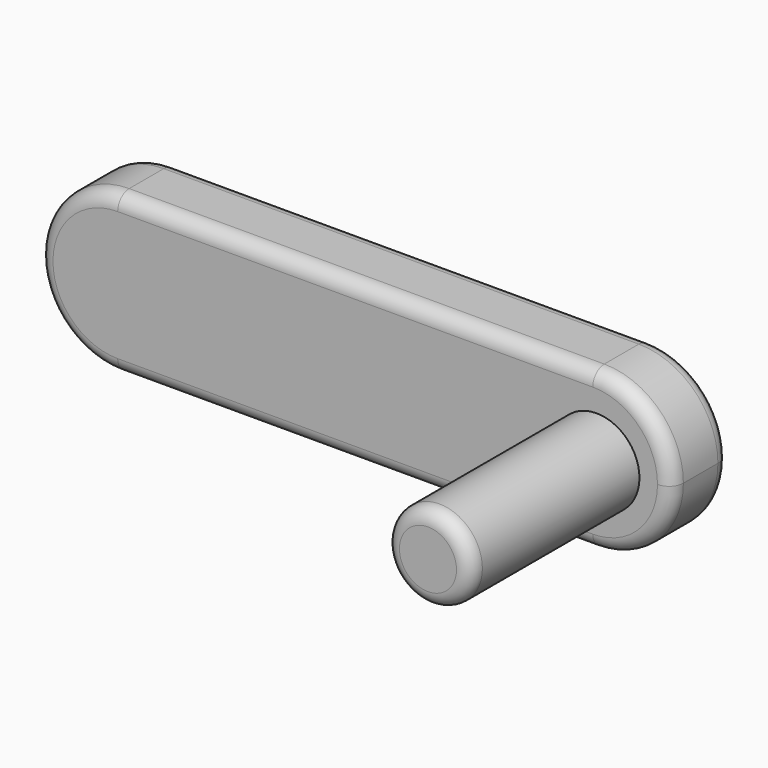
from build123d import *

# Parameters (mm, degrees)
F1_DEPTH = 25.4
F2_R     = 15.1511
F3_DEPTH = 71.374
F4_DEPTH = 28.448
F5_R     = 5.08


with BuildPart() as f1:
    # F0 (on Front) → F1 (new body)
    with BuildSketch(Plane.XZ):
        with BuildLine():
            ThreePointArc((-106.8790640436, -27.94), (-87.1225005772, -19.7565634664), (-78.9390640436, 0))
            ThreePointArc((-78.9390640436, 0), (-87.1225005772, 19.7565634664), (-106.8790640436, 27.94))
            ThreePointArc((-106.8790640436, 27.94), (-134.8190640436, 0), (-106.8790640436, -27.94))
        make_face()
        with BuildLine():
            ThreePointArc((-106.8790640436, 27.94), (-87.1225005772, 19.7565634664), (-78.9390640436, 0))
            ThreePointArc((-78.9390640436, 0), (-87.1225005772, -19.7565634664), (-106.8790640436, -27.94))
            Line((-106.8790640436, -27.94), (60.9095794208, -27.94))
            ThreePointArc((60.9095794208, -27.94), (32.9695794208, 0), (60.9095794208, 27.94))
            Line((60.9095794208, 27.94), (-106.8790640436, 27.94))
        make_face()
        with BuildLine():
            ThreePointArc((88.8495794208, 0), (80.6661428872, 19.7565634664), (60.9095794208, 27.94))
            ThreePointArc((60.9095794208, 27.94), (32.9695794208, 0), (60.9095794208, -27.94))
            ThreePointArc((60.9095794208, -27.94), (80.6661428872, -19.7565634664), (88.8495794208, 0))
        make_face()
    extrude(amount=F1_DEPTH)

    # F2 (on Front) → F3 (join)
    with BuildSketch(Plane.XZ):
        with Locations((62.2427165988, 0)):
            Circle(F2_R)
    extrude(amount=F3_DEPTH)

    # F4 (add): a face of the model
    f4_faces = [f1.faces().sort_by_distance(p)[0] for p in [
        (62.2427165988, -71.374, 0),
    ]]
    extrude(f4_faces, amount=F4_DEPTH)

    # F5
    f5_edges = [f1.edges().sort_by_distance(p)[0] for p in [
        (-22.984742, 0, 27.94),
        (-134.819064, -25.4, 0),
        (47.091617, -99.822, 0),
    ]]
    fillet(f5_edges, radius=F5_R)


solid = f1.part
